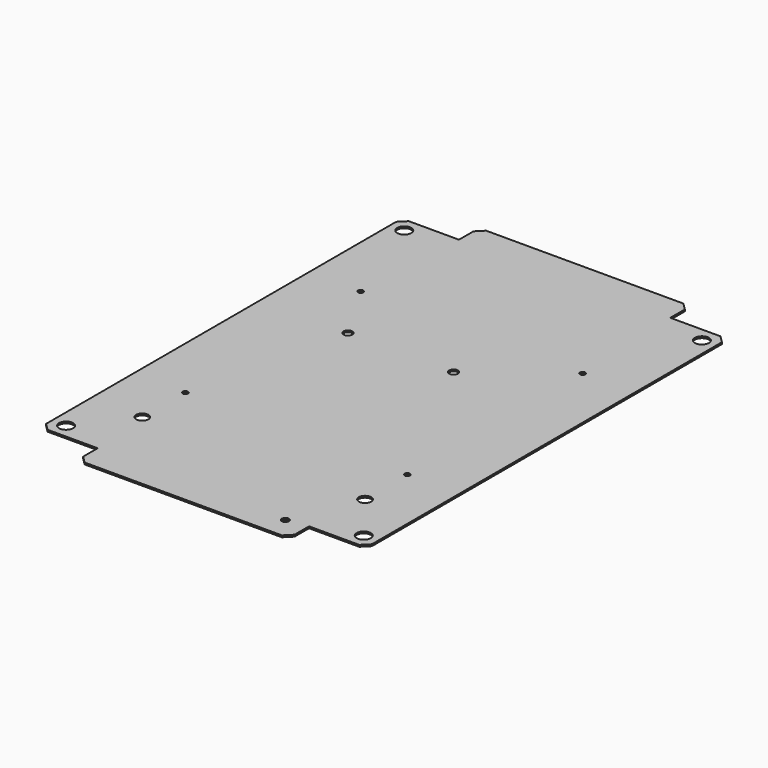
from build123d import *

# Parameters (mm, degrees)
F0_R     = 4
F0_R_2   = 3.5
F0_R_3   = 1.5
F0_R_4   = 2
F0_R_5   = 2.5
F1_DEPTH = 0.5
F2_SIZE  = 4


with BuildPart() as f1:
    # F0 (on Top) → F1 (new body, symmetric)
    with BuildSketch(Plane.XY):
        Polygon((-92.5, 128.2), (-92.5, 0), (-92.5, -128.2), (-60, -128.2), (-60, -142.5), (0, -142.5), (60, -142.5), (60, -128.2), (92.5, -128.2), (92.5, 0), (92.5, 128.2), (60, 128.2), (60, 142.5), (0, 142.5), (-60, 142.5), (-60, 128.2), align=None)
        with Locations((-84.5, -120)):
            Circle(F0_R, mode=Mode.SUBTRACT)
        with Locations((-63.25, -92.5)):
            Circle(F0_R_2, mode=Mode.SUBTRACT)
        with Locations((-63, -62.2)):
            Circle(F0_R_3, mode=Mode.SUBTRACT)
        with Locations((48, -130)):
            Circle(F0_R_4, mode=Mode.SUBTRACT)
        with Locations((84.5, -120)):
            Circle(F0_R, mode=Mode.SUBTRACT)
        with Locations((63.25, -92.5)):
            Circle(F0_R_2, mode=Mode.SUBTRACT)
        with Locations((63, -62.2)):
            Circle(F0_R_3, mode=Mode.SUBTRACT)
        with Locations((-63, 62.2)):
            Circle(F0_R_3, mode=Mode.SUBTRACT)
        with Locations((-42.5, 27.5)):
            Circle(F0_R_5, mode=Mode.SUBTRACT)
        with Locations((-84.5, 120)):
            Circle(F0_R, mode=Mode.SUBTRACT)
        with Locations((17.5, 27.5)):
            Circle(F0_R_5, mode=Mode.SUBTRACT)
        with Locations((63, 62.2)):
            Circle(F0_R_3, mode=Mode.SUBTRACT)
        with Locations((84.5, 120)):
            Circle(F0_R, mode=Mode.SUBTRACT)
    extrude(amount=F1_DEPTH, both=True)

    # F2
    f2_edges = [f1.edges().sort_by_distance(p)[0] for p in [
        (-92.5, 128.2, 0),
        (-60, 142.5, 0),
        (60, 142.5, 0),
        (92.5, 128.2, 0),
        (92.5, -128.2, 0),
        (60, -142.5, 0),
        (-60, -142.5, 0),
        (-92.5, -128.2, 0),
    ]]
    chamfer(f2_edges, length=F2_SIZE)


solid = f1.part
